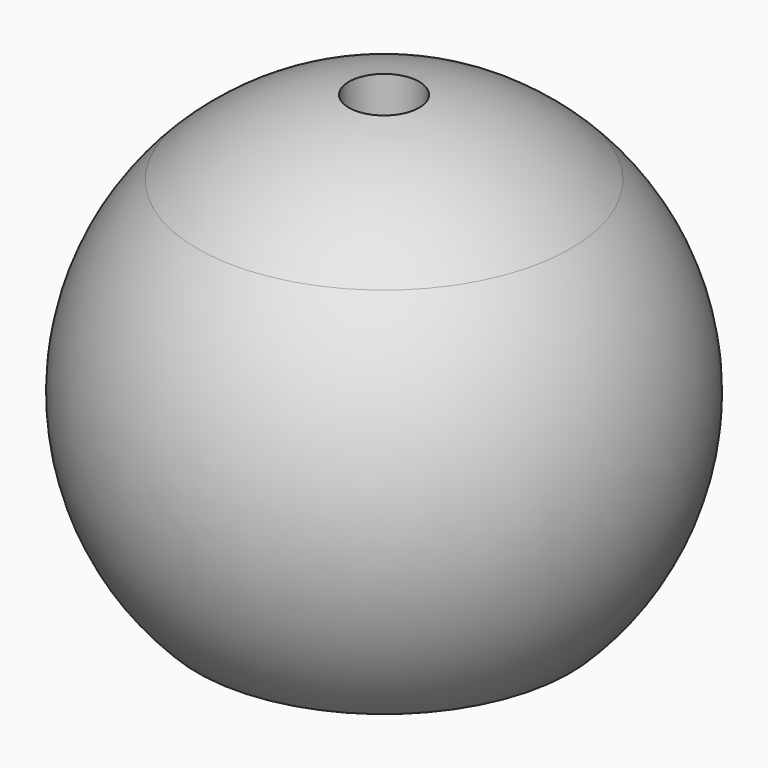
from build123d import *


with BuildPart() as f1:
    # F0 (on Right) → F1 (revolve)
    with BuildSketch(Plane.YZ):
        with BuildLine():
            ThreePointArc((10.606602, -10.606602), (15, 0), (10.606602, 10.606602))
            ThreePointArc((10.606602, 10.606602), (6.653373, 13.443684), (2, 14.866069))
            Line((2, 14.866069), (2, 0))
            ThreePointArc((2, 0), (4.422324, -6.829597), (10.606602, -10.606602))
        make_face()
    revolve(axis=Axis((0, 0, -7.5), (0, 0, -1)))


solid = f1.part
